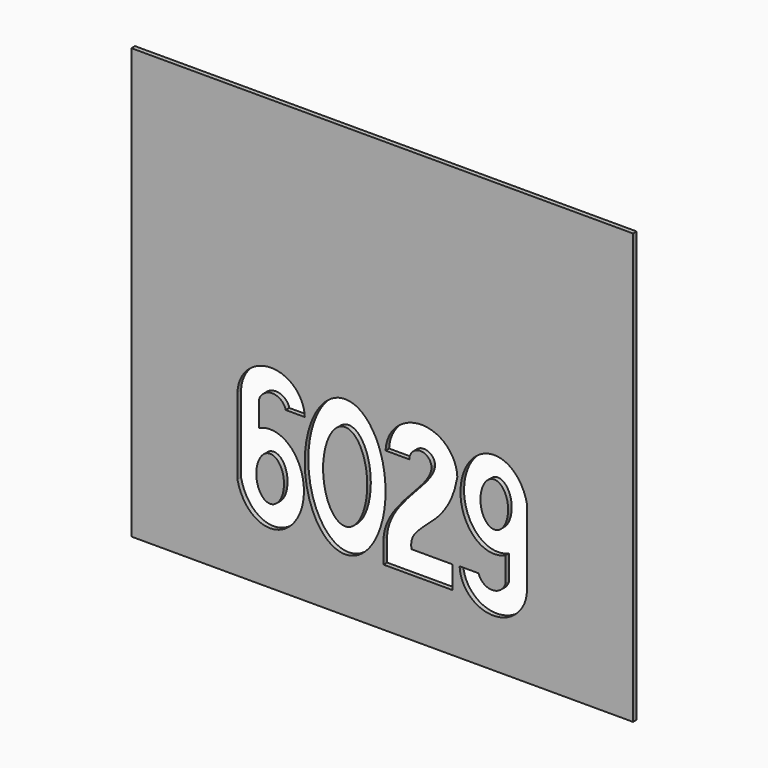
from build123d import *

# Parameters (mm, degrees)
F0_W     = 355.6
F0_H     = 304.8
F1_DEPTH = 3.175


with BuildPart() as f1:
    # F0 (on Front) → F1 (new body)
    with BuildSketch(Plane.XZ):
        with Locations((-40.1574715292, 8.2864418507)):
            Rectangle(F0_W, F0_H)
        with BuildLine():
            ThreePointArc((-142.7557298629, -29.5373028781), (-118.8940867618, -6.520460227), (-95.0324436608, -29.5373028781))
            Line((-95.0324436608, -29.5373028781), (-108.4827767409, -29.5373028781))
            ThreePointArc((-108.4827767409, -29.5373028781), (-118.0494302176, -22.2060663534), (-127.6160836943, -29.5373028781))
            Line((-127.6160836943, -29.5373028781), (-127.6160836943, -46.9478685959))
            add(Edge.make_bspline(
                [(-142.7557298629, -83.987326965), (-126.9738204318, -160.3293840028), (-98.4015956376, -90.4268434154), (-69.8293708434, -20.5243028281), (-127.6160836943, -46.9478685959)],
                knots=[4.9726967666, 4.9726967666, 4.9726967666, 7.3692535387, 7.3692535387, 9.7658103108, 9.7658103108, 9.7658103108], degree=2, weights=[1, 0.3639618282, 1, 0.3639618282, 1]))
            Line((-142.7557298629, -83.987326965), (-142.7557298629, -29.5373028781))
        make_face(mode=Mode.SUBTRACT)
        with BuildLine():
            add(Edge.make_bspline(
                [(-66.4248388269, -105.906184584), (-16.8258911035, -105.906184584), (-41.6253649652, -33.2520364982), (-66.4248388269, 39.4021115876), (-91.2243126886, -33.2520364982), (-116.0237865503, -105.906184584), (-66.4248388269, -105.906184584)],
                knots=[0, 0, 0, 2.0943951024, 2.0943951024, 4.1887902048, 4.1887902048, 6.2831853072, 6.2831853072, 6.2831853072], degree=2, weights=[1, 0.5, 1, 0.5, 1, 0.5, 1]))
        make_face(mode=Mode.SUBTRACT)
        with BuildLine():
            ThreePointArc((-5.2426088433, -31.8500286278), (-13.0815814728, -24.0110559984), (-20.9205541022, -31.8500286278))
            Line((-20.9205541022, -31.8500286278), (-37.7822094142, -31.8500286278))
            ThreePointArc((-37.7822094142, -31.8500286278), (-12.3350775563, -7.4090032919), (13.1120543017, -31.8500286278))
            add(Edge.make_bspline(
                [(13.1120543017, -31.8500286278), (6.6114428313, -69.7065332751), (-22.450112245, -69.0585513461), (-19.3909995049, -87.4132206957)],
                knots=[0, 0, 0, 0, 64.3717082228, 64.3717082228, 64.3717082228, 64.3717082228], degree=3))
            Line((-19.3909995049, -87.4132206957), (9.6705608896, -87.4132206957))
            Line((9.6705608896, -87.4132206957), (9.6705608896, -103.4735581493))
            Line((9.6705608896, -103.4735581493), (-39.2752269973, -103.4735581493))
            Line((-39.2752269973, -103.4735581493), (-39.2752269973, -87.4132206957))
            add(Edge.make_bspline(
                [(-39.2752269973, -87.4132206957), (-37.9446880513, -62.5160173481), (-5.6249974927, -45.9984192894), (-5.2426088433, -31.8500286278)],
                knots=[0, 0, 0, 0, 65.1574048837, 65.1574048837, 65.1574048837, 65.1574048837], degree=3))
        make_face(mode=Mode.SUBTRACT)
        with BuildLine():
            ThreePointArc((62.4407868077, -86.9517425749), (38.5791437066, -109.9685852259), (14.7175006056, -86.9517425749))
            Line((14.7175006056, -86.9517425749), (28.1678336858, -86.9517425749))
            ThreePointArc((28.1678336858, -86.9517425749), (37.7344871624, -94.2829790995), (47.3011406391, -86.9517425749))
            Line((47.3011406391, -86.9517425749), (47.3011406391, -69.541176857))
            add(Edge.make_bspline(
                [(62.4407868077, -32.5017184879), (46.6588773766, 43.8403385498), (18.0866525824, -26.0622020375), (-10.4855722118, -95.9647426249), (47.3011406391, -69.541176857)],
                knots=[4.9726967666, 4.9726967666, 4.9726967666, 7.3692535387, 7.3692535387, 9.7658103108, 9.7658103108, 9.7658103108], degree=2, weights=[1, 0.3639618282, 1, 0.3639618282, 1]))
            Line((62.4407868077, -32.5017184879), (62.4407868077, -86.9517425749))
        make_face(mode=Mode.SUBTRACT)
    extrude(amount=F1_DEPTH)


with BuildPart() as f1b:
    # F0 (on Front) → F1, piece 2 (new body)
    with BuildSketch(Plane.XZ):
        with BuildLine():
            add(Edge.make_bspline(
                [(-66.4248388269, -88.443591274), (-39.3299198243, -88.443591274), (-52.8773793256, -41.9833331532), (-66.4248388269, 4.4769249675), (-79.9722983282, -41.9833331532), (-93.5197578295, -88.443591274), (-66.4248388269, -88.443591274)],
                knots=[0, 0, 0, 2.0943951024, 2.0943951024, 4.1887902048, 4.1887902048, 6.2831853072, 6.2831853072, 6.2831853072], degree=2, weights=[1, 0.5, 1, 0.5, 1, 0.5, 1]))
        make_face()
    extrude(amount=F1_DEPTH)


with BuildPart() as f1c:
    # F0 (on Front) → F1, piece 3 (new body)
    with BuildSketch(Plane.XZ):
        with BuildLine():
            add(Edge.make_bspline(
                [(-119.6021508598, -91.6728613435), (-102.5956020408, -91.6728613435), (-111.0988764503, -68.2260265909), (-119.6021508598, -44.7791918383), (-128.1054252693, -68.2260265909), (-136.6086996787, -91.6728613435), (-119.6021508598, -91.6728613435)],
                knots=[0, 0, 0, 2.0943951024, 2.0943951024, 4.1887902048, 4.1887902048, 6.2831853072, 6.2831853072, 6.2831853072], degree=2, weights=[1, 0.5, 1, 0.5, 1, 0.5, 1]))
        make_face()
    extrude(amount=F1_DEPTH)


with BuildPart() as f1d:
    # F0 (on Front) → F1, piece 4 (new body)
    with BuildSketch(Plane.XZ):
        with BuildLine():
            add(Edge.make_bspline(
                [(39.2872078046, -24.8161841095), (22.2806589856, -24.8161841095), (30.7839333951, -48.2630188621), (39.2872078046, -71.7098536147), (47.7904822141, -48.2630188621), (56.2937566235, -24.8161841095), (39.2872078046, -24.8161841095)],
                knots=[0, 0, 0, 2.0943951024, 2.0943951024, 4.1887902048, 4.1887902048, 6.2831853072, 6.2831853072, 6.2831853072], degree=2, weights=[1, 0.5, 1, 0.5, 1, 0.5, 1]))
        make_face()
    extrude(amount=F1_DEPTH)


solid = Compound([f1.part, f1b.part, f1c.part, f1d.part])
